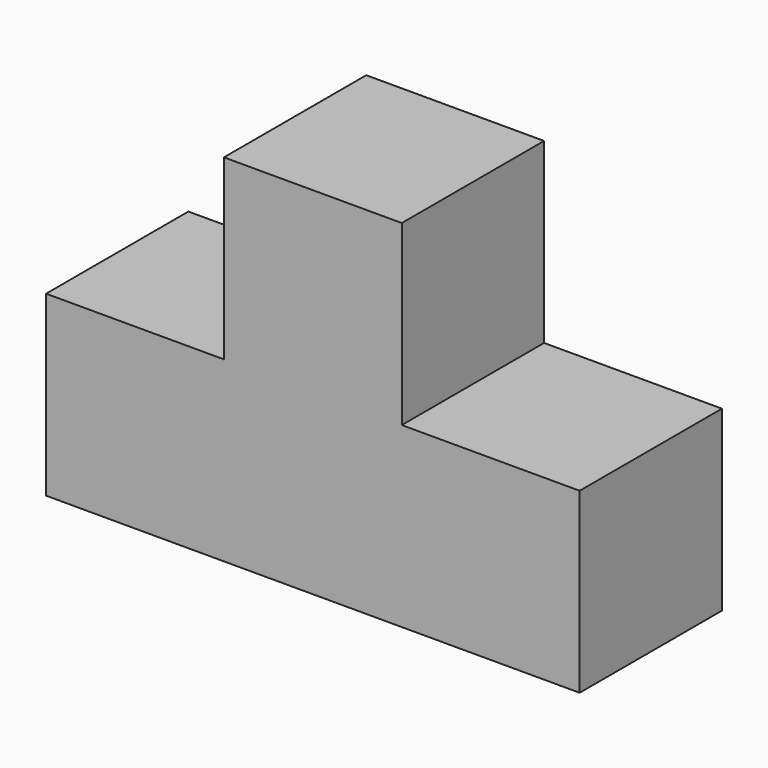
from build123d import *

# Parameters (mm, degrees)
F1_DEPTH = 9.525
F2_DEPTH = 9.525


with BuildPart() as f1:
    # F0 (on Front) → F1 (new body, symmetric)
    with BuildSketch(Plane.XZ):
        Polygon((-46.044428, -16.359498), (-46.044428, -35.409498), (11.105572, -35.409498), (11.105572, -16.359498), (-7.944428, -16.359498), (-7.944428, 2.690502), (-26.994428, 2.690502), (-26.994428, -16.359498), align=None)
    extrude(amount=F1_DEPTH, both=True)

    # F0 (on Front) → F2 (join, symmetric)
    with BuildSketch(Plane.XZ):
        Polygon((-46.044428, -16.359498), (-46.044428, -35.409498), (11.105572, -35.409498), (11.105572, -16.359498), (-7.944428, -16.359498), (-7.944428, 2.690502), (-26.994428, 2.690502), (-26.994428, -16.359498), align=None)
    extrude(amount=F2_DEPTH, both=True)


solid = f1.part
